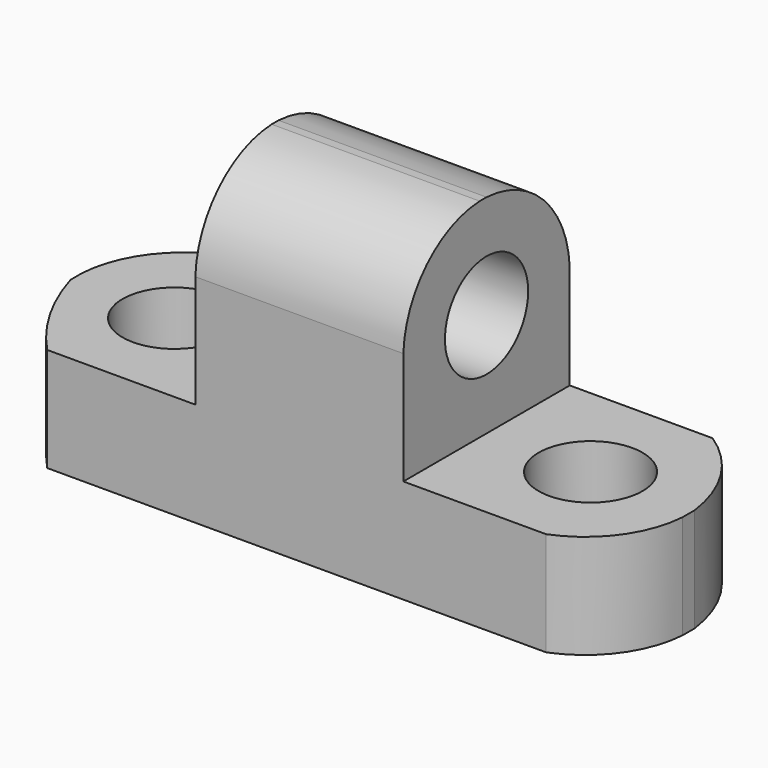
from build123d import *

# Parameters (mm, degrees)
F1_DEPTH  = 25.4
F2_R      = 6.35
F3_DEPTH  = 25.4
F4_R      = 6.35
F5_DEPTH  = 25.4
F6_R      = 6.35
F7_DEPTH  = 25.4
F9_DEPTH  = 25.4
F11_DEPTH = 25.4
F13_DEPTH = 25.4


with BuildPart() as f1:
    # F0 (on Front) → F1 (new body)
    with BuildSketch(Plane.XZ):
        Polygon((0, 12.7), (0, 0), (76.2, 0), (76.2, 12.7), (50.8, 12.7), (50.8, 38.1), (25.4, 38.1), (25.4, 12.7), align=None)
    extrude(amount=F1_DEPTH)

    # F2 (on face) → F3 (cut)
    with BuildSketch(Plane.XY.offset(12.7)):
        with Locations((63.5, -12.7)):
            Circle(F2_R)
    extrude(amount=-F3_DEPTH, mode=Mode.SUBTRACT)

    # F4 (on face) → F5 (cut)
    with BuildSketch(Plane.XY.offset(12.7)):
        with Locations((12.7, -12.7)):
            Circle(F4_R)
    extrude(amount=-F5_DEPTH, mode=Mode.SUBTRACT)

    # F6 (on face) → F7 (cut)
    with BuildSketch(Plane.YZ.offset(50.8)):
        with Locations((-12.7, 25.4)):
            Circle(F6_R)
    extrude(amount=-F7_DEPTH, mode=Mode.SUBTRACT)

    # F8 (on face) → F9 (cut)
    with BuildSketch(Plane.XY.offset(12.7)):
        with BuildLine():
            ThreePointArc((68.2354718447, 0), (73.6121400289, -5.4755298609), (76.2, -12.7))
            Line((76.2, -12.7), (76.2, 0))
            Line((76.2, 0), (68.2354718447, 0))
        make_face()
        with BuildLine():
            ThreePointArc((76.2, -14.5233565668), (73.7819264131, -21.1070720145), (68.2354718447, -25.4))
            Line((68.2354718447, -25.4), (76.2, -25.4))
            Line((76.2, -25.4), (76.2, -14.5233565668))
        make_face()
    extrude(amount=-F9_DEPTH, mode=Mode.SUBTRACT)

    # F10 (on face) → F11 (cut)
    with BuildSketch(Plane.XY.offset(12.7)):
        with BuildLine():
            ThreePointArc((0, -10.8889817229), (2.2004439823, -4.4673896083), (7.3113371618, 0))
            Line((7.3113371618, 0), (0, 0))
            Line((0, 0), (0, -10.8889817229))
        make_face()
        with BuildLine():
            ThreePointArc((7.3113371618, -25.4), (2.9064077234, -19.4813463584), (0, -12.7))
            Line((0, -12.7), (0, -25.4))
            Line((0, -25.4), (7.3113371618, -25.4))
        make_face()
    extrude(amount=-F11_DEPTH, mode=Mode.SUBTRACT)

    # F12 (on face) → F13 (cut)
    with BuildSketch(Plane.YZ.offset(50.8)):
        with BuildLine():
            Line((0, 38.1), (-12.7, 38.1))
            ThreePointArc((-12.7, 38.1), (-3.9193677073, 34.1806322927), (0, 25.4))
            Line((0, 25.4), (0, 38.1))
        make_face()
        with BuildLine():
            ThreePointArc((-25.4, 26.4494707513), (-21.8419395594, 34.5419395594), (-13.7494707513, 38.1))
            Line((-13.7494707513, 38.1), (-25.4, 38.1))
            Line((-25.4, 38.1), (-25.4, 26.4494707513))
        make_face()
    extrude(amount=-F13_DEPTH, mode=Mode.SUBTRACT)


solid = f1.part
